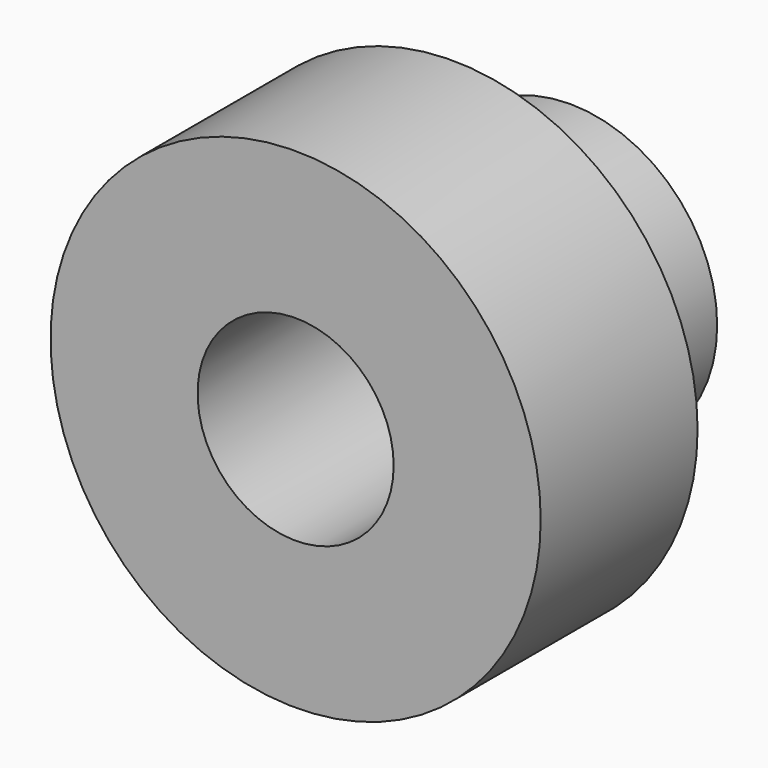
from build123d import *

# Parameters (mm, degrees)
F0_R     = 31.75
F0_R_2   = 12.7
F1_DEPTH = 25.4
F2_R     = 19.05
F2_R_2   = 12.7
F3_DEPTH = 19.05


with BuildPart() as f1:
    # F0 (on Front) → F1 (new body)
    with BuildSketch(Plane.XZ):
        Circle(F0_R)
        Circle(F0_R_2, mode=Mode.SUBTRACT)
    extrude(amount=F1_DEPTH)

    # F2 (on Front) → F3 (join)
    with BuildSketch(Plane.XZ):
        Circle(F2_R)
        Circle(F2_R_2, mode=Mode.SUBTRACT)
    extrude(amount=-F3_DEPTH)


solid = f1.part
